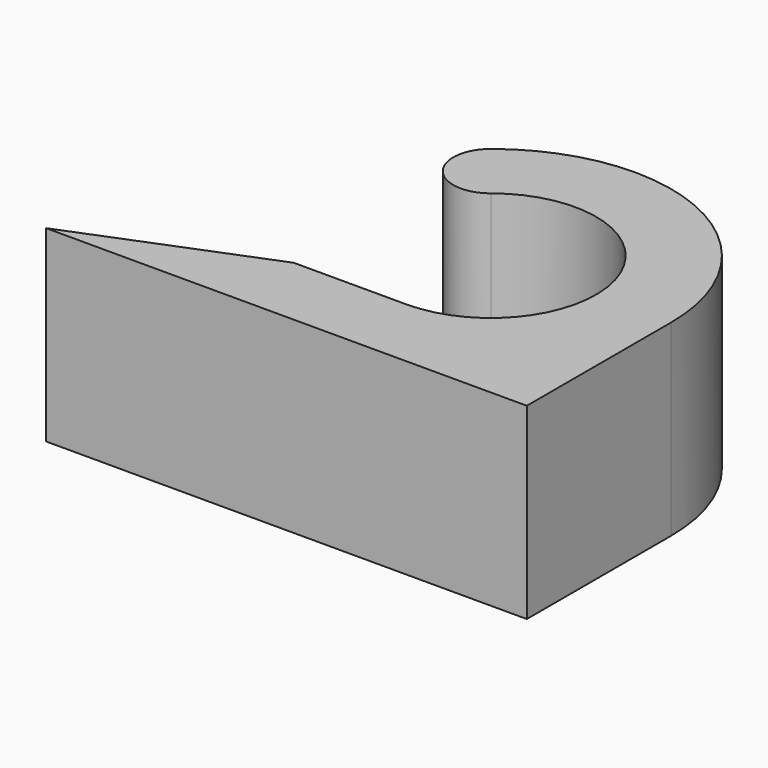
from build123d import *

# Parameters (mm, degrees)
PAD_DEPTH = 25


with BuildPart() as part:
    # Sketch → Pad (new body)
    with BuildSketch(Plane.XY):
        with BuildLine():
            ThreePointArc((64, 24), (50.400723, 45.68526), (24.965644, 42.813397))
            ThreePointArc((24.965644, 42.813397), (24.179475, 35.786169), (31.206703, 35))
            ThreePointArc((39.96481, 10), (53.210772, 28.674471), (31.206703, 35))
            Line((39.96481, 10), (24.965644, 10))
            Line((24.965644, 10), (0, 0))
            Line((0, 0), (64, 0))
            Line((64, 0), (64, 24))
        make_face()
    extrude(amount=PAD_DEPTH)


solid = part.part
